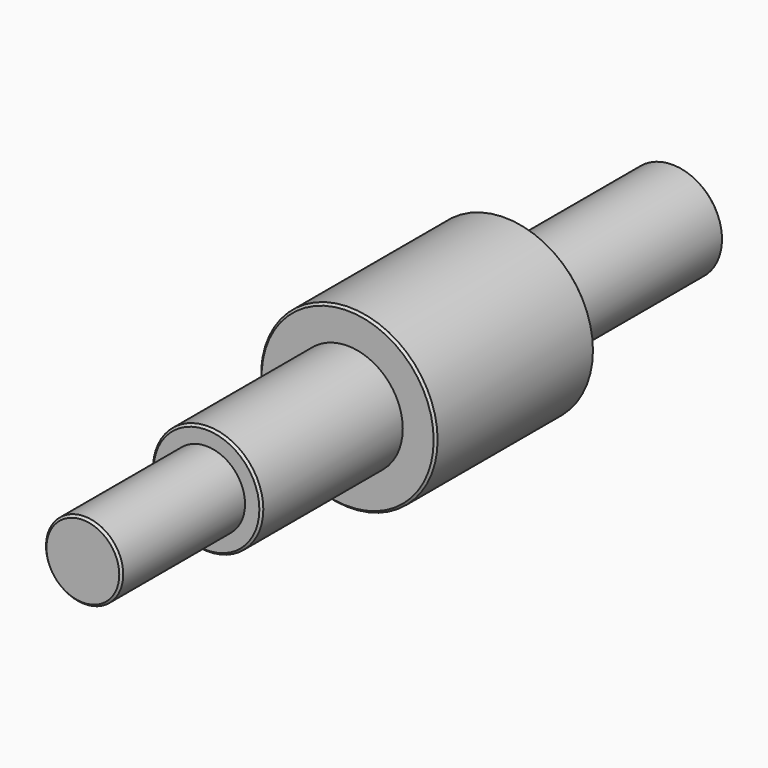
from build123d import *

# Parameters (mm, degrees)
F0_R      = 40
F1_DEPTH  = 90
F2_R      = 25
F3_DEPTH  = 80
F4_R      = 17.5
F5_DEPTH  = 70
F7_DEPTH  = 30
F8_SIZE   = 1
F9_R      = 22.5
F10_DEPTH = 95
F11_SIZE  = 1


with BuildPart() as f1:
    # F0 (on Front) → F1 (new body)
    with BuildSketch(Plane.XZ):
        with Locations((40.362715, 0)):
            Circle(F0_R)
    extrude(amount=F1_DEPTH)

    # F2 (on face) → F3 (join)
    with BuildSketch(Plane.XZ.offset(90)):
        with Locations((40.362715, 0)):
            Circle(F2_R)
    extrude(amount=F3_DEPTH)

    # F4 (on face) → F5 (join)
    with BuildSketch(Plane.XZ.offset(170)):
        with Locations((40.362715, 0)):
            Circle(F4_R)
        with Locations((40.362715, 0)):
            Circle(F4_R)
    extrude(amount=F5_DEPTH)

    # F6 (on Right) → F7 (cut)
    with BuildSketch(Plane.YZ):
        with BuildLine():
            ThreePointArc((-230, 5), (-235, 0), (-230, -5))
            Line((-230, -5), (-205, -5))
            ThreePointArc((-205, -5), (-200, 0), (-205, 5))
            Line((-205, 5), (-230, 5))
        make_face()
    extrude(amount=F7_DEPTH, mode=Mode.SUBTRACT)

    # F8
    f8_edges = [f1.edges().sort_by_distance(p)[0] for p in [
        (22.862715, -240, 0),
        (15.362715, -170, 0),
        (0.362715, -90, 0),
    ]]
    chamfer(f8_edges, length=F8_SIZE)

    # F9 (on face) → F10 (join)
    with BuildSketch(Plane(origin=(0, 0, 0), x_dir=(-1, 0, 0), z_dir=(0, 1, 0))):
        with Locations((-40.362715, 0)):
            Circle(F9_R)
    extrude(amount=F10_DEPTH)

    # F11
    f11_edges = [f1.edges().sort_by_distance(p)[0] for p in [
        (62.862715, 95, 0),
        (0.362715, 0, 0),
    ]]
    chamfer(f11_edges, length=F11_SIZE)


solid = f1.part
